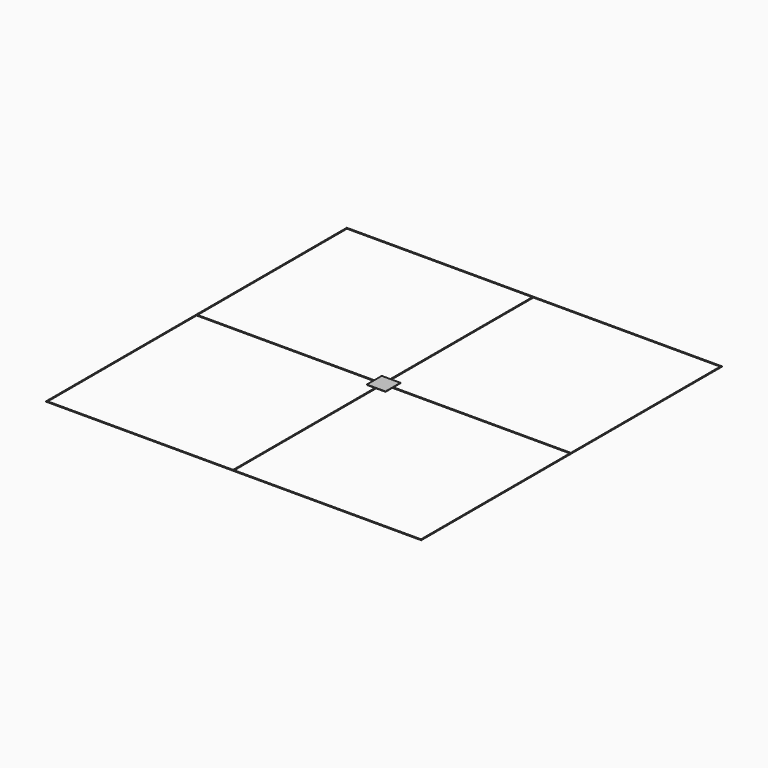
from build123d import *

# Parameters (mm, degrees)
F1_DEPTH = 0.2
F2_DEPTH = 0.2


with BuildPart() as f1:
    # F0 (on Top) → F1 (new body)
    with BuildSketch(Plane.XY):
        Polygon((-99.99784, 100), (-99.99784, -100), (-99.99784, -100.4), (100.4, -100.4), (100.4, 100.4), (-99.99784, 100.4), align=None)
        Polygon((100, -0.4), (100, -100), (0, -100), (0, -5), (-0.4, -5), (-0.4, -100), (-99.59784, -100), (-99.59784, -0.4), (-5, -0.4), (-5, 0), (-99.59784, 0), (-99.59784, 100), (-0.4, 100), (-0.4, 5), (0, 5), (0, 100), (100, 100), (100, 0), (5, 0), (5, -0.4), align=None, mode=Mode.SUBTRACT)
    extrude(amount=F1_DEPTH)


with BuildPart() as f2:
    # F0 (on Top) → F2 (new body)
    with BuildSketch(Plane.XY):
        Polygon((-0.4, -5), (0, -5), (5, -5), (5, -0.4), (5, 0), (5, 5), (0, 5), (-0.4, 5), (-5, 5), (-5, 0), (-5, -0.4), (-5, -5), align=None)
    extrude(amount=F2_DEPTH)


solid = Compound([f1.part, f2.part])
